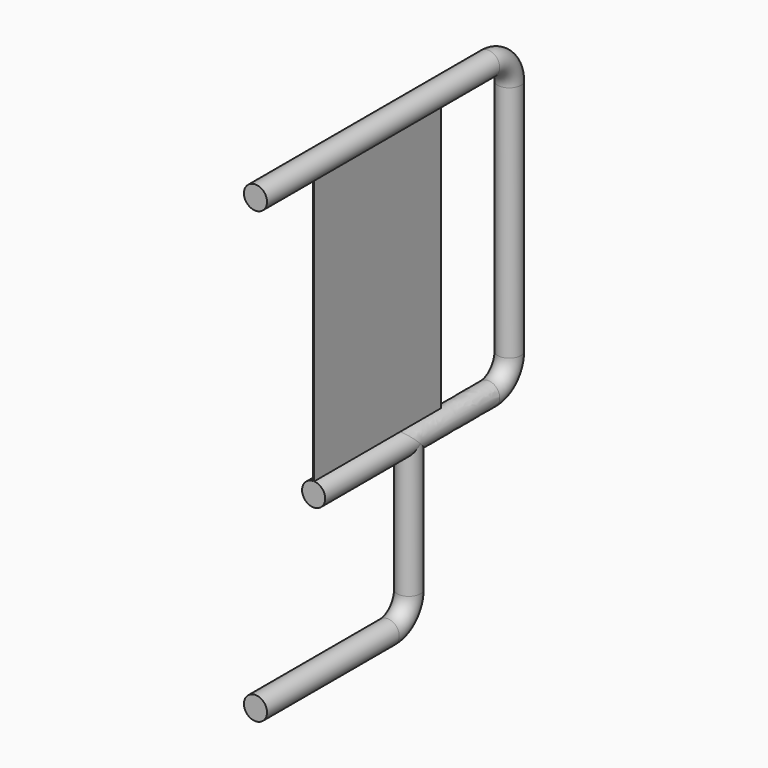
from build123d import *

# Parameters (mm, degrees)
SKETCH_R     = 11.1125
SKETCH003_R  = 11.1125
PAD_DEPTH    = 137
SKETCH004_W  = 152.4
SKETCH004_H  = 270.212156
PAD001_DEPTH = 0.508


with BuildPart() as part:
    # AdditivePipe: sweep along a path in Sketch001
    with BuildLine(Plane.YZ) as additivepipe_path:
        Line((0, 0), (279.4, 0))
        ThreePointArc((279.4, 0), (297.360512, -7.439488), (304.8, -25.4))
        Line((304.8, -25.4), (304.8, -254))
        ThreePointArc((304.8, -254), (297.360512, -271.960512), (279.4, -279.4))
        Line((279.4, -279.4), (184.15, -279.4))
        Line((184.15, -279.4), (184.15, -406.4))
        ThreePointArc((184.15, -406.4), (176.710512, -424.360512), (158.75, -431.8))
        Line((158.75, -431.8), (0, -431.8))
    # Sketch → AdditivePipe (sweep)
    with BuildSketch(Plane.XZ):
        Circle(SKETCH_R)
    sweep(path=additivepipe_path.line, transition=Transition.RIGHT)

    # Sketch003 (on DatumPlane) → Pad (new body)
    with BuildSketch(Plane(origin=(0, 69.85, -279.4), x_dir=(-1, 0, 0), z_dir=(0, 1, 0))):
        Circle(SKETCH003_R)
    extrude(amount=PAD_DEPTH)

    # Sketch004 → Pad001 (join, symmetric)
    with BuildSketch(Plane.YZ):
        with Locations((146.05, -138.737672)):
            Rectangle(SKETCH004_W, SKETCH004_H)
    extrude(amount=PAD001_DEPTH, both=True)


solid = part.part
